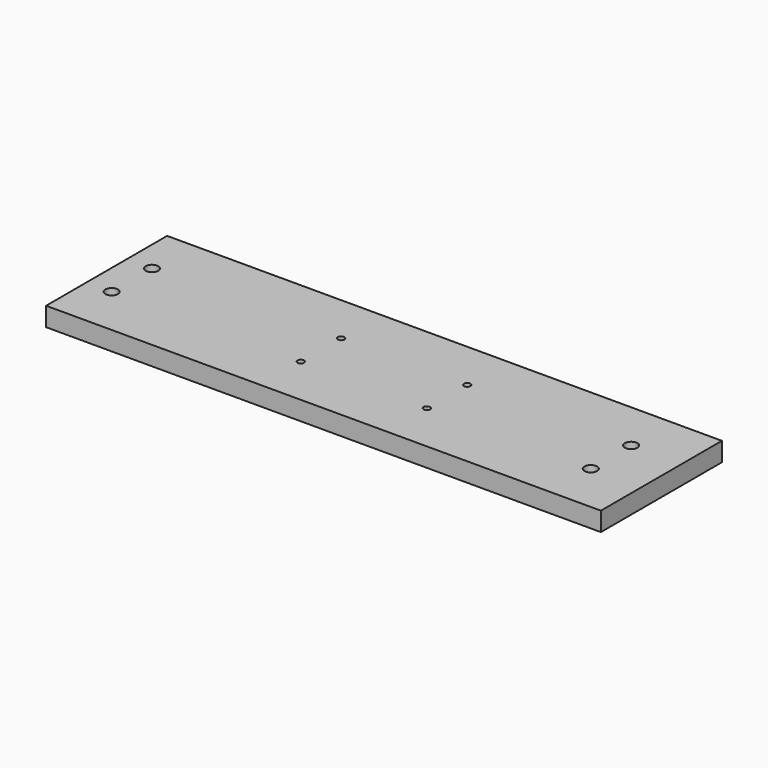
from build123d import *

# Parameters (mm, degrees)
F0_W     = 11
F0_H     = 3
F1_DEPTH = 0.375
F2_R     = 0.125
F2_R_2   = 0.065
F3_DEPTH = 2


with BuildPart() as f1:
    # F0 (on Top) → F1 (new body)
    with BuildSketch(Plane.XY):
        with Locations((-0.5, 0)):
            Rectangle(F0_W, F0_H)
    extrude(amount=F1_DEPTH)

    # F2 (on face) → F3 (cut)
    with BuildSketch(Plane.XY.offset(0.375)):
        with Locations((-5.5, 0.5)):
            Circle(F2_R)
        with Locations((-5.5, -0.5)):
            Circle(F2_R)
        with Locations((-1.75, 0.5)):
            Circle(F2_R_2)
        with Locations((-1.75, -0.5)):
            Circle(F2_R_2)
        with Locations((0.75, 0.5)):
            Circle(F2_R_2)
        with Locations((0.75, -0.5)):
            Circle(F2_R_2)
        with Locations((4, 0.5)):
            Circle(F2_R)
        with Locations((4, -0.5)):
            Circle(F2_R)
    extrude(amount=-F3_DEPTH, mode=Mode.SUBTRACT)


solid = f1.part
